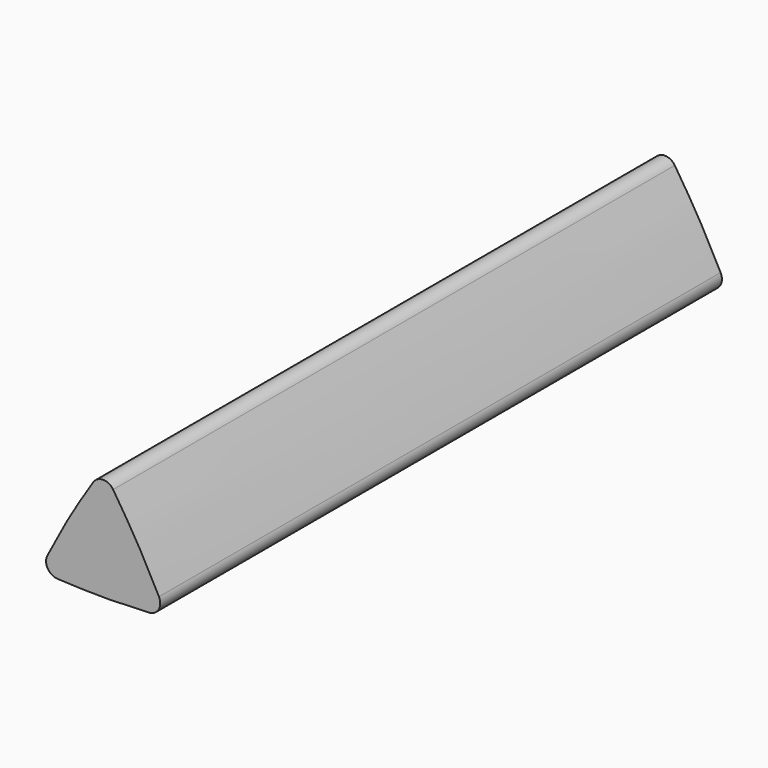
from build123d import *

# Parameters (mm, degrees)
F1_DEPTH = 29.6


with BuildPart() as f1:
    # F0 (on Front) → F1 (new body)
    with BuildSketch(Plane.XZ):
        with BuildLine():
            add(Edge.make_bspline(
                [(0.347833, 0.685448), (0.641423, 1.259751), (1.241216, 2.401075), (1.929735, 3.491173), (2.280301, 4.032581)],
                knots=[0.768058, 0.768058, 0.768058, 0.768058, 2.701851, 4.635644, 4.635644, 4.635644, 4.635644], degree=3))
            ThreePointArc((0.347833, 0.685448), (0.360019, 0.207857), (0.767532, -0.041492))
            add(Edge.make_bspline(
                [(4.632468, -0.041492), (3.988312, -0.074387), (2.7, -0.125613), (1.411688, -0.074387), (0.767532, -0.041492)],
                knots=[0.768058, 0.768058, 0.768058, 0.768058, 2.701851, 4.635644, 4.635644, 4.635644, 4.635644], degree=3))
            ThreePointArc((4.632468, -0.041492), (5.039981, 0.207857), (5.052167, 0.685448))
            add(Edge.make_bspline(
                [(5.052167, 0.685448), (4.758577, 1.259751), (4.158784, 2.401075), (3.470265, 3.491173), (3.119699, 4.032581)],
                knots=[0.768058, 0.768058, 0.768058, 0.768058, 2.701851, 4.635644, 4.635644, 4.635644, 4.635644], degree=3))
            ThreePointArc((3.119699, 4.032581), (2.7, 4.260823), (2.280301, 4.032581))
        make_face()
    extrude(amount=F1_DEPTH)


solid = f1.part
